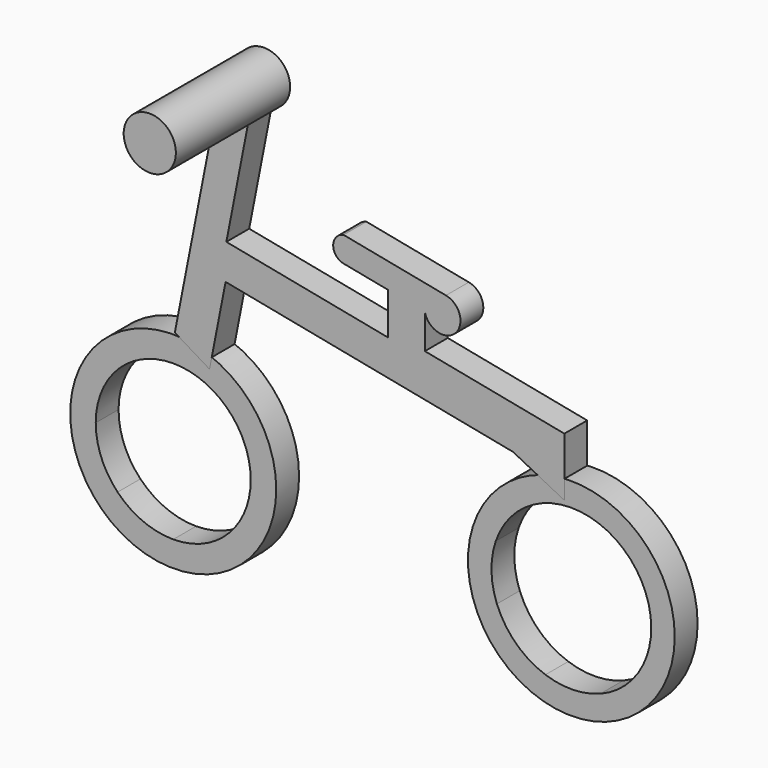
from build123d import *

# Parameters (mm, degrees)
F0_R     = 18.320369
F0_R_2   = 18.388064
F1_DEPTH = 5.08
F2_DEPTH = 5.08
F4_DEPTH = 5.08
F5_R     = 4.640729
F6_DEPTH = 25.4


with BuildPart() as f1:
    # F0 (on Front) → F1 (new body)
    with BuildSketch(Plane.XZ):
        with Locations((-44.753797, -26.046421)):
            Circle(F0_R)
        with BuildLine():
            ThreePointArc((-35.337483, -15.98326), (-32.110486, -20.561819), (-30.972136, -26.046421))
            ThreePointArc((-30.972136, -26.046421), (-31.935427, -31.108393), (-34.690636, -35.462736))
            ThreePointArc((-34.690636, -35.462736), (-39.269195, -38.689733), (-44.753797, -39.828083))
            ThreePointArc((-44.753797, -39.828083), (-50.124491, -38.738538), (-54.645997, -35.642179))
            ThreePointArc((-54.645997, -35.642179), (-57.526133, -31.22345), (-58.535458, -26.046421))
            ThreePointArc((-58.535458, -26.046421), (-57.445914, -20.675728), (-54.349555, -16.154222))
            ThreePointArc((-54.349555, -16.154222), (-49.930826, -13.274086), (-44.753797, -12.26476))
            ThreePointArc((-44.753797, -12.26476), (-39.691826, -13.228051), (-35.337483, -15.98326))
        make_face(mode=Mode.SUBTRACT)
        with Locations((26.04642, -26.046421)):
            Circle(F0_R_2)
        with BuildLine():
            ThreePointArc((39.282633, -20.882642), (40.00922, -23.419226), (40.254233, -26.046421))
            ThreePointArc((40.254233, -26.046421), (40.060798, -28.382903), (39.485762, -30.655763))
            ThreePointArc((39.485762, -30.655763), (36.299457, -35.881928), (31.210199, -39.282635))
            ThreePointArc((31.210199, -39.282635), (26.341658, -40.251167), (21.437078, -39.485764))
            ThreePointArc((21.437078, -39.485764), (16.210913, -36.299458), (12.810206, -31.210201))
            ThreePointArc((12.810206, -31.210201), (11.841674, -26.34166), (12.607077, -21.43708))
            ThreePointArc((12.607077, -21.43708), (15.793382, -16.210915), (20.88264, -12.810208))
            ThreePointArc((20.88264, -12.810208), (25.03631, -11.874561), (29.280694, -12.211631))
            ThreePointArc((29.280694, -12.211631), (35.353183, -15.311147), (39.282633, -20.882642))
        make_face(mode=Mode.SUBTRACT)
    extrude(amount=F1_DEPTH)


with BuildPart() as f2:
    # F0 (on Front) → F2 (new body)
    with BuildSketch(Plane.XZ):
        with Locations((-44.753797, -26.046421)):
            Circle(F0_R)
        with BuildLine():
            ThreePointArc((-35.337483, -15.98326), (-32.110486, -20.561819), (-30.972136, -26.046421))
            ThreePointArc((-30.972136, -26.046421), (-31.935427, -31.108393), (-34.690636, -35.462736))
            ThreePointArc((-34.690636, -35.462736), (-39.269195, -38.689733), (-44.753797, -39.828083))
            ThreePointArc((-44.753797, -39.828083), (-50.124491, -38.738538), (-54.645997, -35.642179))
            ThreePointArc((-54.645997, -35.642179), (-57.526133, -31.22345), (-58.535458, -26.046421))
            ThreePointArc((-58.535458, -26.046421), (-57.445914, -20.675728), (-54.349555, -16.154222))
            ThreePointArc((-54.349555, -16.154222), (-49.930826, -13.274086), (-44.753797, -12.26476))
            ThreePointArc((-44.753797, -12.26476), (-39.691826, -13.228051), (-35.337483, -15.98326))
        make_face(mode=Mode.SUBTRACT)
        with Locations((26.04642, -26.046421)):
            Circle(F0_R_2)
        with BuildLine():
            ThreePointArc((39.282633, -20.882642), (40.00922, -23.419226), (40.254233, -26.046421))
            ThreePointArc((40.254233, -26.046421), (40.060798, -28.382903), (39.485762, -30.655763))
            ThreePointArc((39.485762, -30.655763), (36.299457, -35.881928), (31.210199, -39.282635))
            ThreePointArc((31.210199, -39.282635), (26.341658, -40.251167), (21.437078, -39.485764))
            ThreePointArc((21.437078, -39.485764), (16.210913, -36.299458), (12.810206, -31.210201))
            ThreePointArc((12.810206, -31.210201), (11.841674, -26.34166), (12.607077, -21.43708))
            ThreePointArc((12.607077, -21.43708), (15.793382, -16.210915), (20.88264, -12.810208))
            ThreePointArc((20.88264, -12.810208), (25.03631, -11.874561), (29.280694, -12.211631))
            ThreePointArc((29.280694, -12.211631), (35.353183, -15.311147), (39.282633, -20.882642))
        make_face(mode=Mode.SUBTRACT)
    extrude(amount=F2_DEPTH)


with BuildPart() as f4:
    # F3 (on Front) → F4 (new body)
    with BuildSketch(Plane.XZ):
        Polygon((-36.983039, 30.939119), (-44.465989, -7.339047), (-38.294397, -11.080521), (-35.440378, 3.518886), (15.685415, -6.47563), (24.796607, -11.080521), (24.796607, -6.47563), (24.796607, -0.648227), (0, 4.19923), (0, 10.381487), (-6.520308, 11.656133), (-6.520308, 4.19923), (-35.304489, 9.826213), (-31.390863, 29.845912), align=None)
        with BuildLine():
            Line((-14.455974, 13.207467), (-6.520308, 11.656133))
            Line((-6.520308, 11.656133), (0, 10.381487))
            ThreePointArc((0, 10.381487), (5.396313, 8.751765), (3.745914, 14.14179))
            Line((3.745914, 14.14179), (-14.455974, 17.700054))
            ThreePointArc((-14.455974, 17.700054), (-16.305662, 15.45376), (-14.455974, 13.207467))
        make_face()
    extrude(amount=F4_DEPTH)

    # F5 (on Front) → F6 (join)
    with BuildSketch(Plane.XZ):
        with Locations((-32.665953, 34.392789)):
            Circle(F5_R)
    extrude(amount=F6_DEPTH)


solid = Compound([f1.part, f2.part, f4.part])
